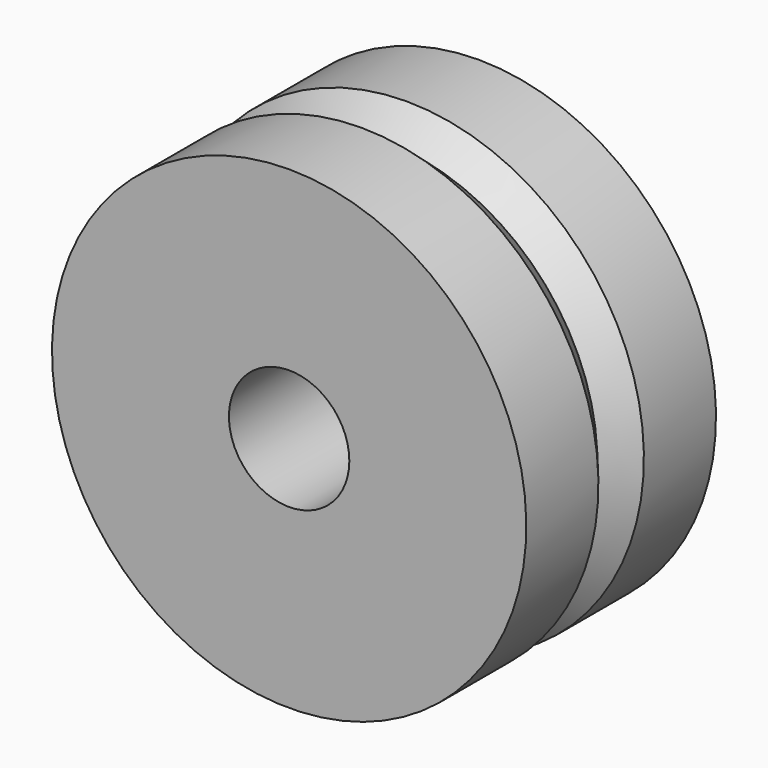
from build123d import *

# Parameters (mm, degrees)
F2_R     = 2.54
F3_DEPTH = 10.0076


with BuildPart() as f1:
    # F0 (on Right) → F1 (revolve)
    with BuildSketch(Plane.YZ):
        Polygon((3.804419, 10.0076), (0, 10.0076), (0, 0), (10.0076, 0), (10.0076, 10.0076), (6.203181, 10.0076), (5.0038, 9.00684), align=None)
    revolve(axis=Axis((0, 5.0038, 0), (0, 1, 0)))

    # F2 (on face) → F3 (cut, through all)
    with BuildSketch(Plane.XZ):
        Circle(F2_R)
    extrude(amount=-F3_DEPTH, mode=Mode.SUBTRACT)


solid = f1.part
